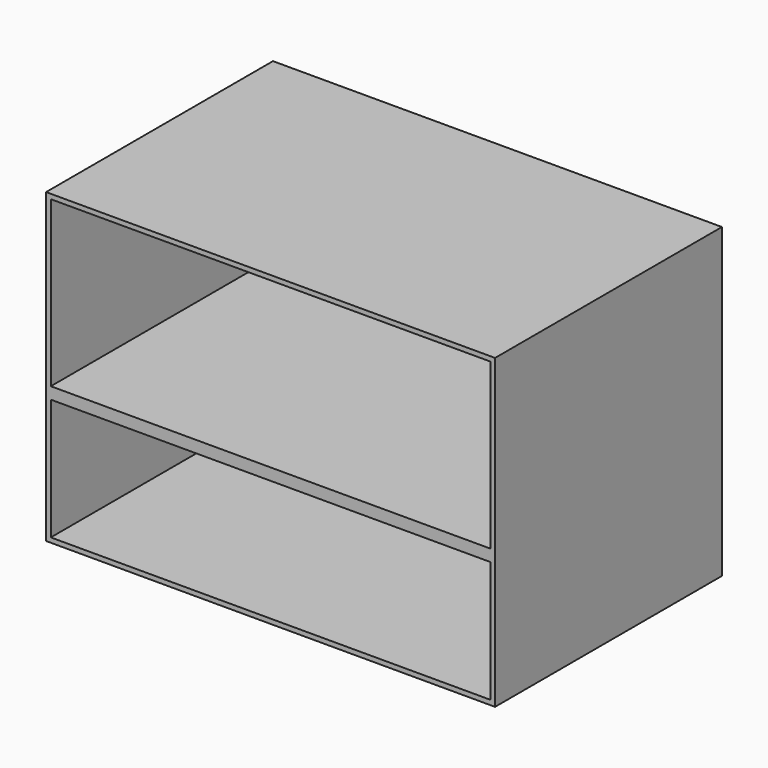
from build123d import *

# Parameters (mm, degrees)
F0_W     = 241.3
F0_H     = 165.1
F1_DEPTH = 152.4
F2_T     = -2.54
F3_W     = 237.49
F3_H     = 152.4
F4_DEPTH = 6.35


with BuildPart() as f1:
    # F0 (on Front) → F1 (new body)
    with BuildSketch(Plane.XZ):
        with Locations((-4.36151, 14.835821)):
            Rectangle(F0_W, F0_H)
    extrude(amount=F1_DEPTH)

    # F2
    f2_openings = [f1.faces().sort_by_distance(p)[0] for p in [
        (-4.36151, -152.4, 14.835821),
    ]]
    offset(amount=F2_T, openings=f2_openings)

    # F3 (on Top) → F4 (join)
    with BuildSketch(Plane.XY):
        with Locations((-4.821002, -76.2)):
            Rectangle(F3_W, F3_H)
    extrude(amount=F4_DEPTH)


solid = f1.part
